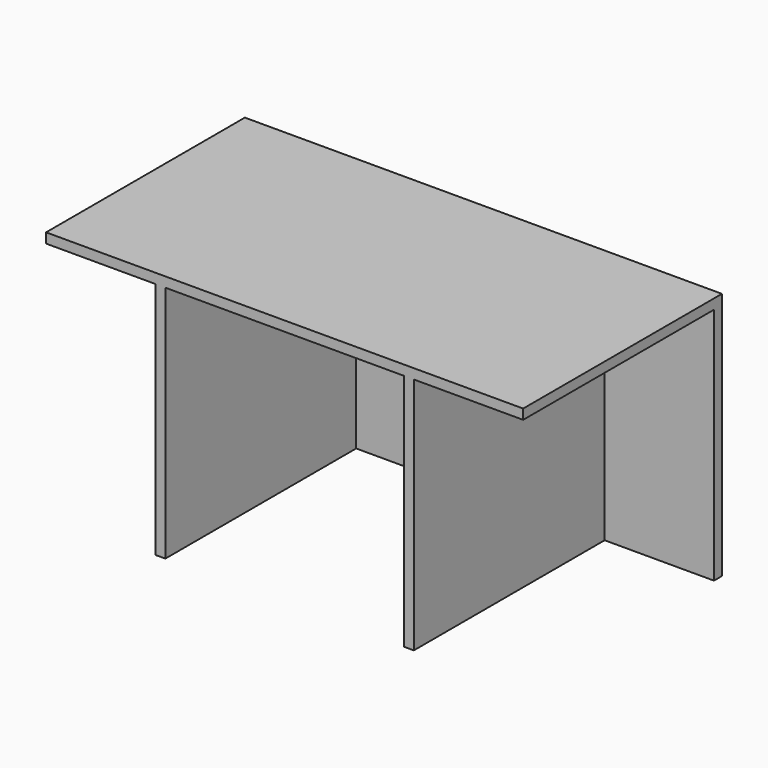
from build123d import *

# Parameters (mm, degrees)
F0_W     = 609.6
F0_H     = 304.8
F1_DEPTH = 12.7
F2_W     = 12.7
F2_H     = 304.8
F3_DEPTH = 304.8
F4_W     = 609.6
F4_H     = 317.5
F5_DEPTH = 12.7


with BuildPart() as f1:
    # F0 (on Front) → F1 (new body)
    with BuildSketch(Plane.XZ):
        with Locations((0, 152.4)):
            Rectangle(F0_W, F0_H)
    extrude(amount=F1_DEPTH)

    # F2 (on face) → F3 (join)
    with BuildSketch(Plane.XZ.offset(12.7)):
        with Locations((-158.75, 152.4)):
            Rectangle(F2_W, F2_H)
        with Locations((158.75, 152.4)):
            Rectangle(F2_W, F2_H)
    extrude(amount=F3_DEPTH)

    # F4 (on face) → F5 (join)
    with BuildSketch(Plane.XY.offset(304.8)):
        with Locations((0, -158.75)):
            Rectangle(F4_W, F4_H)
    extrude(amount=F5_DEPTH)


solid = f1.part
